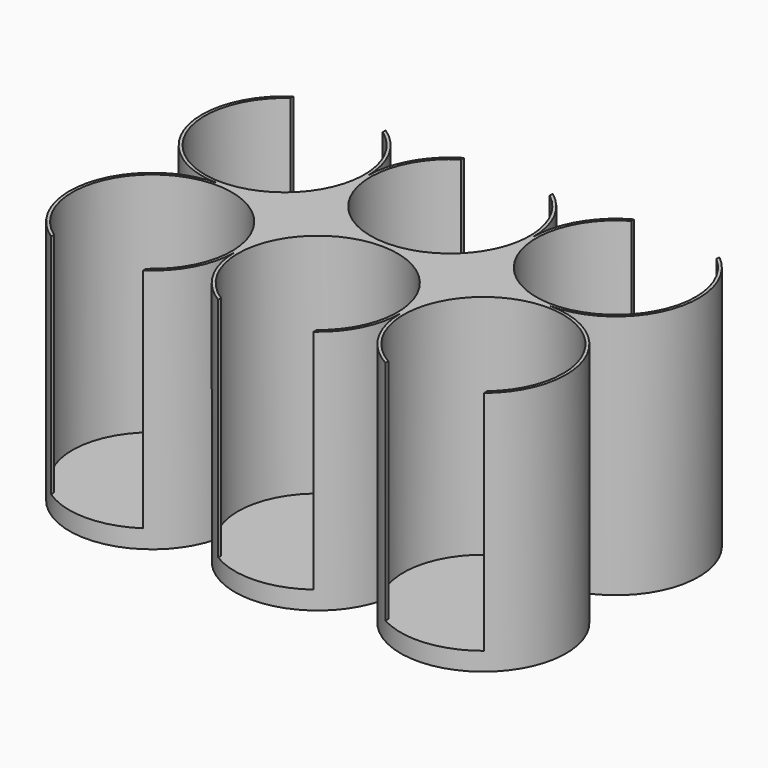
from build123d import *

# Parameters (mm, degrees)
PAD_DEPTH       = 40
SKETCH001_R     = 13
POCKET_DEPTH    = 37
SKETCH002_W     = 15
SKETCH002_H     = 20
POCKET001_DEPTH = 37
SKETCH003_R     = 5.5
POCKET002_DEPTH = 2.5


with BuildPart() as part:
    # Sketch → Pad (new body)
    with BuildSketch(Plane.XY):
        with BuildLine():
            ThreePointArc((13.5, 0), (-9.545941, 9.545942), (0, -13.5))
            ThreePointArc((0, -13.5), (-9.545941, -36.545942), (13.5, -27))
            ThreePointArc((13.5, -27), (27, -40.5), (40.5, -27))
            ThreePointArc((40.5, -27), (63.545941, -36.545942), (54, -13.5))
            ThreePointArc((54, -13.5), (63.545941, 9.545942), (40.5, 0))
            ThreePointArc((40.5, 0), (27, 13.5), (13.5, 0))
        make_face()
    extrude(amount=PAD_DEPTH)

    # Sketch001 (on Face8 of Pad) → Pocket (cut)
    with BuildSketch(Plane.XY.offset(40)):
        Circle(SKETCH001_R)
        with Locations((0, -27)):
            Circle(SKETCH001_R)
        with Locations((27, 0)):
            Circle(SKETCH001_R)
        with Locations((27, -27)):
            Circle(SKETCH001_R)
        with Locations((54, 0)):
            Circle(SKETCH001_R)
        with Locations((54, -27)):
            Circle(SKETCH001_R)
    extrude(amount=-POCKET_DEPTH, mode=Mode.SUBTRACT)

    # Sketch002 (on Face5 of Pocket) → Pocket001 (cut)
    with BuildSketch(Plane.XY.offset(40)):
        with Locations((0, 10)):
            Rectangle(SKETCH002_W, SKETCH002_H)
        with Locations((0, -35)):
            Rectangle(SKETCH002_W, SKETCH002_H)
        with Locations((27.5, 10)):
            Rectangle(SKETCH002_W, SKETCH002_H)
        with Locations((55, 10)):
            Rectangle(SKETCH002_W, SKETCH002_H)
        with Locations((27.5, -35)):
            Rectangle(SKETCH002_W, SKETCH002_H)
        with Locations((55, -35)):
            Rectangle(SKETCH002_W, SKETCH002_H)
    extrude(amount=-POCKET001_DEPTH, mode=Mode.SUBTRACT)

    # Sketch003 (on Face2 of Pocket001) → Pocket002 (cut)
    with BuildSketch(Plane(origin=(0, 0, 0), x_dir=(1, 0, 0), z_dir=(0, 0, -1))):
        with Locations((12, 13.5)):
            Circle(SKETCH003_R)
        with Locations((27, 13.5)):
            Circle(SKETCH003_R)
        with Locations((42, 13.5)):
            Circle(SKETCH003_R)
    extrude(amount=-POCKET002_DEPTH, mode=Mode.SUBTRACT)


solid = part.part
